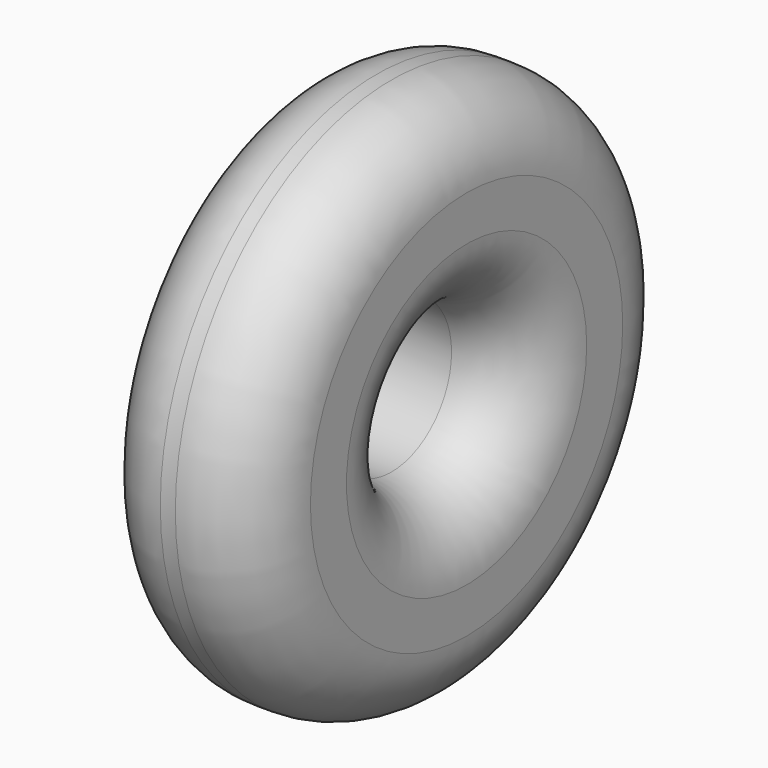
from build123d import *

# Parameters (mm, degrees)
F0_R     = 18
F0_R_2   = 5
F1_DEPTH = 11
F2_R     = 5


with BuildPart() as f1:
    # F0 (on Right) → F1 (new body)
    with BuildSketch(Plane.YZ):
        Circle(F0_R)
        Circle(F0_R_2, mode=Mode.SUBTRACT)
    extrude(amount=F1_DEPTH)

    # F2
    f2_edges = [f1.edges().sort_by_distance(p)[0] for p in [
        (5.5, 18, 0),
        (0, -18, 0),
        (11, -18, 0),
        (11, -5, 0),
    ]]
    fillet(f2_edges, radius=F2_R)


solid = f1.part
